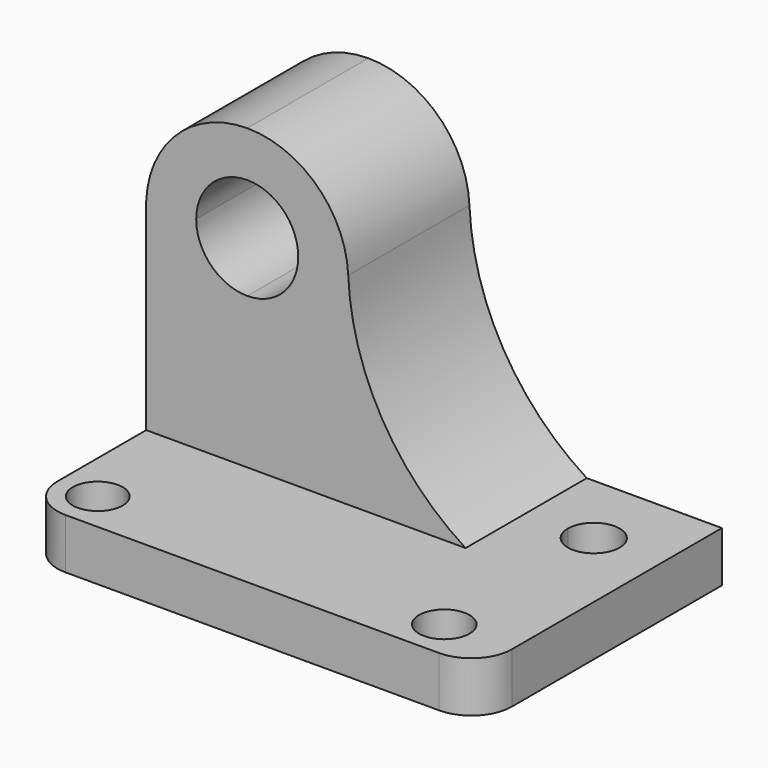
from build123d import *

# Parameters (mm, degrees)
F0_W     = 57.15
F0_H     = 44.45
F1_DEPTH = 38.1
F2_W     = 57.15
F2_H     = 38.1
F3_DEPTH = 19.05
F4_R     = 5.08
F5_W     = 31.75
F5_H     = 12.7
F6_DEPTH = 19.051
F8_DEPTH = 6.351


with BuildPart() as f1:
    # F0 (on Front) → F1 (new body)
    with BuildSketch(Plane.XZ):
        with Locations((28.575, 22.225)):
            Rectangle(F0_W, F0_H)
    extrude(amount=F1_DEPTH)

    # F2 (on face) → F3 (cut)
    with BuildSketch(Plane.XZ.offset(38.1)):
        with Locations((28.575, 25.4)):
            Rectangle(F2_W, F2_H)
    extrude(amount=-F3_DEPTH, mode=Mode.SUBTRACT)

    # F4
    f4_edges = [f1.edges().sort_by_distance(p)[0] for p in [
        (0, -38.1, 3.175),
        (57.15, -38.1, 3.175),
    ]]
    fillet(f4_edges, radius=F4_R)

    # F5 (on face) → F6 (cut, through all)
    with BuildSketch(Plane.XZ.offset(19.05)):
        with BuildLine():
            Line((12.7, 31.75), (12.7, 38.1659469176))
            ThreePointArc((12.7, 38.1659469176), (8.1632404269, 36.2867595731), (6.2840530824, 31.75))
            Line((6.2840530824, 31.75), (12.7, 31.75))
        make_face()
        with BuildLine():
            ThreePointArc((19.1159469176, 31.75), (17.2367595731, 36.2867595731), (12.7, 38.1659469176))
            Line((12.7, 38.1659469176), (12.7, 31.75))
            Line((12.7, 31.75), (19.1159469176, 31.75))
        make_face()
        with BuildLine():
            Line((12.7, 25.3340530824), (12.7, 31.75))
            Line((12.7, 31.75), (6.2840530824, 31.75))
            ThreePointArc((6.2840530824, 31.75), (8.1632404269, 27.2132404269), (12.7, 25.3340530824))
        make_face()
        with BuildLine():
            Line((19.1159469176, 31.75), (12.7, 31.75))
            Line((12.7, 31.75), (12.7, 25.3340530824))
            ThreePointArc((12.7, 25.3340530824), (17.2367595731, 27.2132404269), (19.1159469176, 31.75))
        make_face()
        with BuildLine():
            Line((12.7, 43.9009574959), (12.7, 44.45))
            Line((12.7, 44.45), (0, 44.45))
            Line((0, 44.45), (0, 31.75))
            ThreePointArc((0, 31.75), (3.9117156386, 40.3739372872), (12.7, 43.9009574959))
        make_face()
        with BuildLine():
            Line((25.4, 44.45), (12.7, 44.45))
            Line((12.7, 44.45), (12.7, 43.9009574959))
            ThreePointArc((12.7, 43.9009574959), (21.4882843614, 40.3739372872), (25.4, 31.75))
            Line((25.4, 31.75), (25.4, 44.45))
        make_face()
        with BuildLine():
            Line((57.15, 31.75), (25.4, 31.75))
            ThreePointArc((25.4, 31.75), (29.6571125542, 17.2352579477), (40.1600599289, 6.35))
            Line((40.1600599289, 6.35), (57.15, 6.35))
            Line((57.15, 6.35), (57.15, 31.75))
        make_face()
        with Locations((41.275, 38.1)):
            Rectangle(F5_W, F5_H)
    extrude(amount=-F6_DEPTH, mode=Mode.SUBTRACT)

    # F7 (on face) → F8 (cut, through all)
    with BuildSketch(Plane.XY.offset(6.35)):
        with BuildLine():
            Line((1.9419096436, -33.02), (8.2180903564, -33.02))
            ThreePointArc((8.2180903564, -33.02), (5.08, -29.8819096436), (1.9419096436, -33.02))
        make_face()
        with BuildLine():
            ThreePointArc((1.9419096436, -33.02), (5.08, -36.1580903564), (8.2180903564, -33.02))
            Line((8.2180903564, -33.02), (1.9419096436, -33.02))
        make_face()
        with BuildLine():
            Line((45.4800299644, -33.02), (51.8300299644, -33.02))
            ThreePointArc((51.8300299644, -33.02), (48.6550299644, -29.845), (45.4800299644, -33.02))
        make_face()
        with BuildLine():
            ThreePointArc((45.4800299644, -33.02), (48.6550299644, -36.195), (51.8300299644, -33.02))
            Line((51.8300299644, -33.02), (45.4800299644, -33.02))
        make_face()
        with BuildLine():
            Line((45.4016557758, -9.525), (51.9084041531, -9.525))
            ThreePointArc((51.9084041531, -9.525), (48.6550299644, -6.2716258113), (45.4016557758, -9.525))
        make_face()
        with BuildLine():
            ThreePointArc((45.4016557758, -9.525), (48.6550299644, -12.7783741887), (51.9084041531, -9.525))
            Line((51.9084041531, -9.525), (45.4016557758, -9.525))
        make_face()
    extrude(amount=-F8_DEPTH, mode=Mode.SUBTRACT)


solid = f1.part
